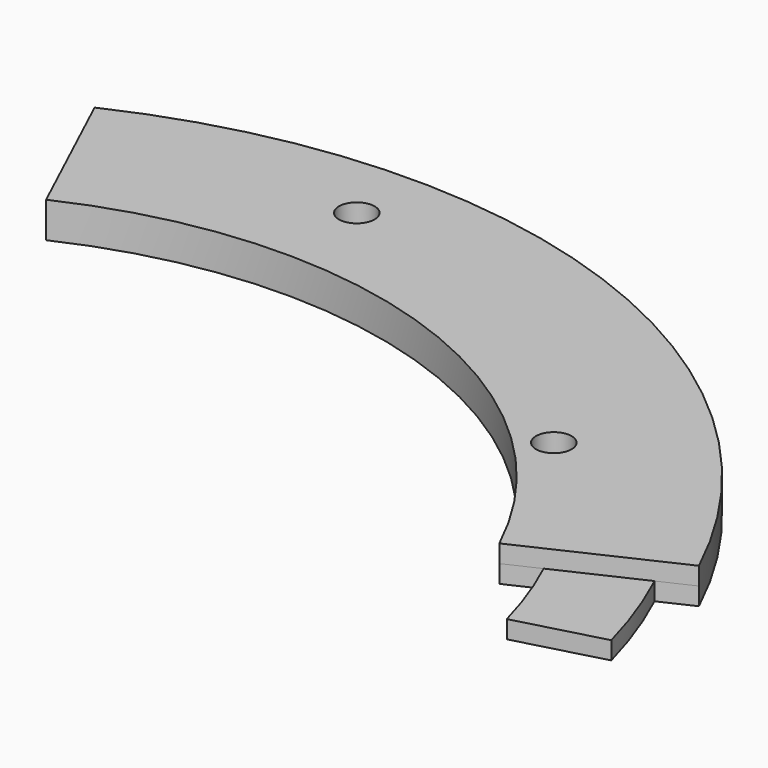
from build123d import *

# Parameters (mm, degrees)
F0_R      = 90
F1_DEPTH  = 5
F2_R      = 67.5
F3_DEPTH  = 5
F4_R      = 2.5
F5_DEPTH  = 5.001
F7_DEPTH  = 5.001
F9_DEPTH  = 2.5
F11_DEPTH = 2.501
F13_DEPTH = 2.501
F15_DEPTH = 2.501
F19_DEPTH = 2.5


with BuildPart() as f1:
    # F0 (on Top) → F1 (new body)
    with BuildSketch(Plane.XY):
        Circle(F0_R)
    extrude(amount=F1_DEPTH)

    # F2 (on face) → F3 (cut)
    with BuildSketch(Plane.XY.offset(5)):
        Circle(F2_R)
    extrude(amount=-F3_DEPTH, mode=Mode.SUBTRACT)

    # F4 (on face) → F5 (cut, through all)
    with BuildSketch(Plane.XY.offset(5)):
        with Locations((0, 80)):
            Circle(F4_R)
    extrude(amount=-F5_DEPTH, mode=Mode.SUBTRACT)

    # F6 (on face) → F7 (cut, through all)
    with BuildSketch(Plane.XY.offset(5)):
        with BuildLine():
            ThreePointArc((49.1439212925, 49.1439212925), (51.8683968263, 48.6019894142), (53.4116882454, 50.9116882454))
            ThreePointArc((53.4116882454, 50.9116882454), (49.9549796645, 53.2213870767), (49.1439212925, 49.1439212925))
        make_face()
    extrude(amount=-F7_DEPTH, mode=Mode.SUBTRACT)

    # F8 (on face) → F9 (cut)
    with BuildSketch(Plane.XY.offset(5)):
        with BuildLine():
            Line((-28.5267326675, 61.175775625), (-38.0356435567, 81.5677008333))
            ThreePointArc((-38.0356435567, 81.5677008333), (-30.7818128993, -84.5723358707), (81.5677008333, 38.0356435567))
            Line((81.5677008333, 38.0356435567), (61.175775625, 28.5267326675))
            ThreePointArc((61.175775625, 28.5267326675), (-23.0863596745, -63.429251903), (-28.5267326675, 61.175775625))
        make_face()
    extrude(amount=-F9_DEPTH, mode=Mode.SUBTRACT)

    # F10 (on face) → F11 (cut, through all)
    with BuildSketch(Plane.XY.offset(2.5)):
        with BuildLine():
            ThreePointArc((77.0361638276, 35.9225531477), (-29.0717129108, -79.8738747674), (-35.9225531477, 77.0361638276))
            Line((-35.9225531477, 77.0361638276), (-38.0356435567, 81.5677008333))
            ThreePointArc((-38.0356435567, 81.5677008333), (-48.3569647512, -75.9052301232), (90, 0))
            ThreePointArc((90, 0), (87.8666406408, 19.4795652544), (81.5677008333, 38.0356435567))
            Line((81.5677008333, 38.0356435567), (77.0361638276, 35.9225531477))
        make_face()
    extrude(amount=-F11_DEPTH, mode=Mode.SUBTRACT)

    # F12 (on face) → F13 (cut, through all)
    with BuildSketch(Plane.XY.offset(2.5)):
        with BuildLine():
            Line((-28.5267326675, 61.175775625), (-30.6398239762, 65.7073145602))
            ThreePointArc((-30.6398239762, 65.7073145602), (-24.7964603911, -68.127715007), (65.7073145602, 30.6398239762))
            Line((65.7073145602, 30.6398239762), (61.175775625, 28.5267326675))
            ThreePointArc((61.175775625, 28.5267326675), (65.8999804806, 14.6096739408), (67.5, 0))
            ThreePointArc((67.5, 0), (-36.2677235634, -56.9289225924), (-28.5267326675, 61.175775625))
        make_face()
    extrude(amount=-F13_DEPTH, mode=Mode.SUBTRACT)

    # F14 (on face) → F15 (cut, through all)
    with BuildSketch(Plane.XY.offset(2.5)):
        Polygon((98.6606093618, 26.4360306033), (0, 0), (-50.3402867184, 107.9550932479), (-138.5994553566, -33.6444936693), (-65.9655109048, -85.6016203761), (32.1168266237, -89.8430198431), (88.8455361128, -67.5756856799), align=None)
    extrude(amount=-F15_DEPTH, mode=Mode.SUBTRACT)

    # F18 (on face) → F19 (cut)
    with BuildSketch(Plane(origin=(0, 0, 0), x_dir=(1, 0, 0), z_dir=(0, 0, -1))):
        with BuildLine():
            Line((-21.9996188337, -82.1036952346), (-18.7643804985, -70.029621393))
            ThreePointArc((-18.7643804985, -70.029621393), (-24.7964600325, -68.1277140216), (-30.639823533, -65.7073136098))
            Line((-30.639823533, -65.7073136098), (-35.922552248, -77.0361618981))
            ThreePointArc((-35.922552248, -77.0361618981), (-29.0717121827, -79.8738727668), (-21.9996188337, -82.1036952346))
        make_face()
    extrude(amount=-F19_DEPTH, mode=Mode.SUBTRACT)


solid = f1.part
